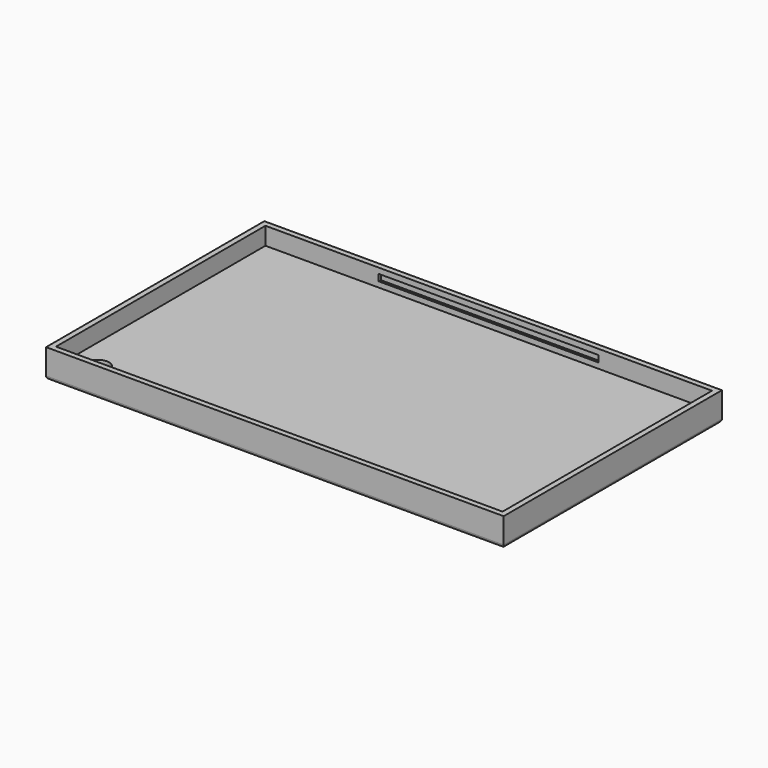
from build123d import *

# Parameters (mm, degrees)
SKETCH_W        = 104
SKETCH_H        = 62
PAD_DEPTH       = 6.5
SKETCH001_W     = 101.5
SKETCH001_H     = 59.5
POCKET_DEPTH    = 4
SKETCH002_W     = 50
SKETCH002_H     = 1.5
POCKET001_DEPTH = 0.6
SKETCH003_W     = 50
SKETCH003_H     = 1.5
POCKET002_DEPTH = 0.6
FILLET_R        = 0.75
SKETCH004_R     = 2.5
POCKET003_DEPTH = 3


with BuildPart() as part:
    # Sketch → Pad (new body)
    with BuildSketch(Plane.XY):
        Rectangle(SKETCH_W, SKETCH_H)
    extrude(amount=PAD_DEPTH)

    # Sketch001 (on Face6 of Pad) → Pocket (cut)
    with BuildSketch(Plane.XY.offset(6.5)):
        Rectangle(SKETCH001_W, SKETCH001_H)
    extrude(amount=-POCKET_DEPTH, mode=Mode.SUBTRACT)

    # Sketch002 (on Face7 of Pocket) → Pocket001 (cut)
    with BuildSketch(Plane.XZ.offset(-29.75)):
        with Locations((0, 4.5)):
            Rectangle(SKETCH002_W, SKETCH002_H)
    extrude(amount=-POCKET001_DEPTH, mode=Mode.SUBTRACT)

    # Sketch003 (on Face9 of Pocket001) → Pocket002 (cut)
    with BuildSketch(Plane(origin=(0, -29.75, 0), x_dir=(-1, 0, 0), z_dir=(0, 1, 0))):
        with Locations((0, 4.5)):
            Rectangle(SKETCH003_W, SKETCH003_H)
    extrude(amount=-POCKET002_DEPTH, mode=Mode.SUBTRACT)

    # Fillet
    fillet_edges = [part.edges().sort_by_distance(p)[0] for p in [
        (0, -31, 0),
        (52, 0, 0),
        (0, 31, 0),
        (-52, 0, 0),
    ]]
    fillet(fillet_edges, radius=FILLET_R)

    # Sketch004 (on Face15 of Fillet) → Pocket003 (cut)
    with BuildSketch(Plane.XY.offset(2.5)):
        with Locations((-45, -25)):
            Circle(SKETCH004_R)
    extrude(amount=-POCKET003_DEPTH, mode=Mode.SUBTRACT)


solid = part.part
